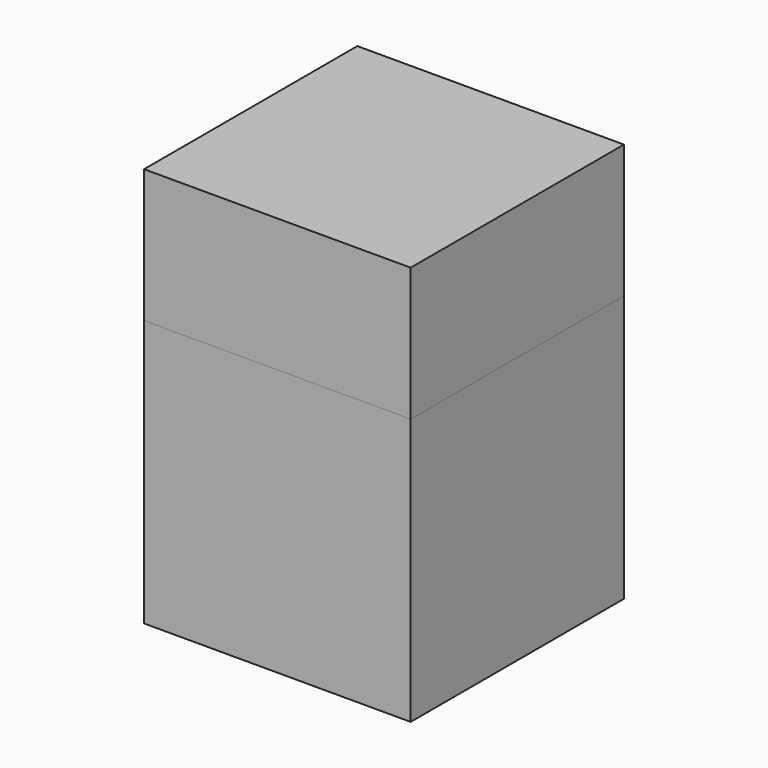
from build123d import *

# Parameters (mm, degrees)
F0_W     = 50
F0_H     = 50
F1_DEPTH = 50
F2_W     = 50
F2_H     = 50
F3_DEPTH = 25


with BuildPart() as f1:
    # F0 (on Top) → F1 (new body)
    with BuildSketch(Plane.XY):
        with Locations((-25, 25)):
            Rectangle(F0_W, F0_H)
    extrude(amount=-F1_DEPTH)


with BuildPart() as f3:
    # F2 (on face) → F3 (new body)
    with BuildSketch(Plane.XY):
        with Locations((-25, 25)):
            Rectangle(F2_W, F2_H)
    extrude(amount=F3_DEPTH)


solid = Compound([f1.part, f3.part])
